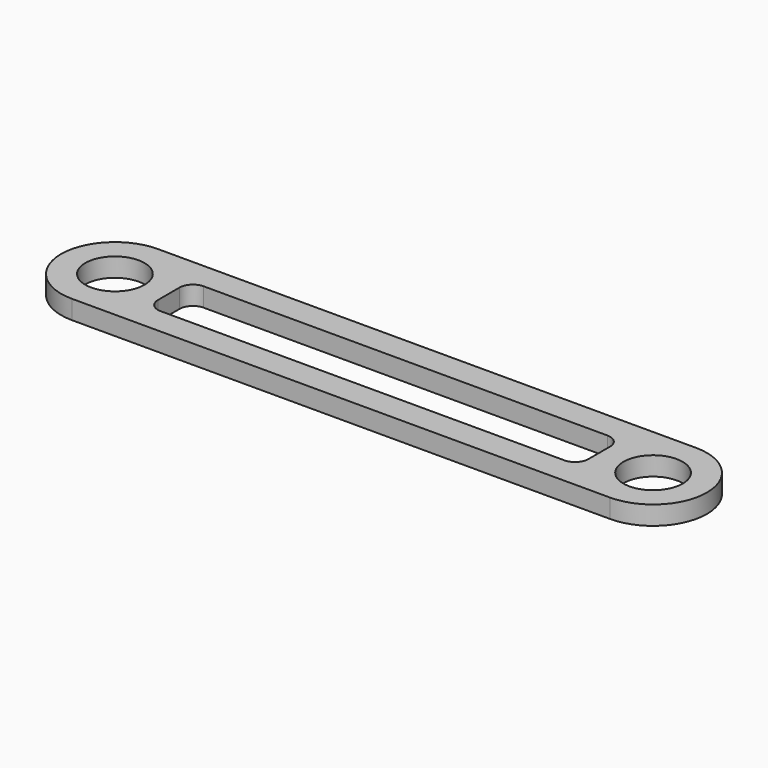
from build123d import *

# Parameters (mm, degrees)
F1_DEPTH = 7
F2_R     = 11
F2_R_2   = 10
F3_DEPTH = 7
F4_W     = 160
F4_H     = 20
F5_DEPTH = 7.001
F6_R     = 5


with BuildPart() as f1:
    # F0 (on Top) → F1 (new body)
    with BuildSketch(Plane.XY):
        with BuildLine():
            Line((0, 10), (0, 0))
            Line((0, 0), (200, 0))
            Line((200, 0), (200, 10))
            ThreePointArc((200, 10), (190, 20), (200, 30))
            Line((200, 30), (200, 40))
            Line((200, 40), (0, 40))
            Line((0, 40), (0, 30))
            ThreePointArc((0, 30), (7.071068, 27.071068), (10, 20))
            ThreePointArc((10, 20), (7.071068, 12.928932), (0, 10))
        make_face()
        with BuildLine():
            ThreePointArc((0, 40), (-20, 20), (0, 0))
            Line((0, 0), (0, 10))
            ThreePointArc((0, 10), (-10, 20), (0, 30))
            Line((0, 30), (0, 40))
        make_face()
        with BuildLine():
            Line((200, 10), (200, 0))
            ThreePointArc((200, 0), (220, 20), (200, 40))
            Line((200, 40), (200, 30))
            ThreePointArc((200, 30), (207.071068, 27.071068), (210, 20))
            ThreePointArc((210, 20), (207.071068, 12.928932), (200, 10))
        make_face()
    extrude(amount=F1_DEPTH)

    # F2 (on face) → F3 (cut)
    with BuildSketch(Plane.XY.offset(7)):
        with Locations((0, 20)):
            Circle(F2_R)
        with Locations((0, 20)):
            Circle(F2_R_2, mode=Mode.SUBTRACT)
        with Locations((200, 20)):
            Circle(F2_R)
        with Locations((200, 20)):
            Circle(F2_R_2, mode=Mode.SUBTRACT)
    extrude(amount=-F3_DEPTH, mode=Mode.SUBTRACT)

    # F4 (on face) → F5 (cut, through all)
    with BuildSketch(Plane.XY.offset(7)):
        with Locations((100, 20)):
            Rectangle(F4_W, F4_H)
    extrude(amount=-F5_DEPTH, mode=Mode.SUBTRACT)

    # F6
    f6_edges = [f1.edges().sort_by_distance(p)[0] for p in [
        (20, 30, 3.5),
        (180, 30, 3.5),
        (180, 10, 3.5),
        (20, 10, 3.5),
    ]]
    fillet(f6_edges, radius=F6_R)


solid = f1.part
